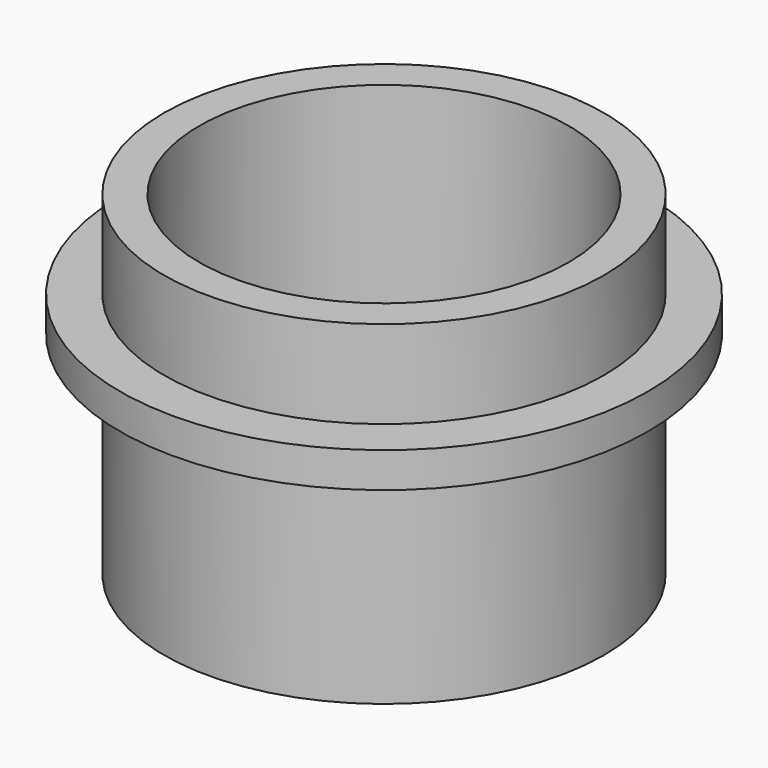
from build123d import *

# Parameters (mm, degrees)
SKETCH_R      = 30
SKETCH_R_2    = 21
PAD_DEPTH     = 4
SKETCH001_R   = 25
SKETCH001_R_2 = 21
PAD001_DEPTH  = 24
SKETCH002_R   = 25
SKETCH002_R_2 = 21
PAD002_DEPTH  = 10


with BuildPart() as part:
    # Sketch → Pad (new body)
    with BuildSketch(Plane.XY):
        Circle(SKETCH_R)
        Circle(SKETCH_R_2, mode=Mode.SUBTRACT)
    extrude(amount=PAD_DEPTH)

    # Sketch001 (on Face3 of Pad) → Pad001 (join)
    with BuildSketch(Plane(origin=(0, 0, 0), x_dir=(1, 0, 0), z_dir=(0, 0, -1))):
        Circle(SKETCH001_R)
        Circle(SKETCH001_R_2, mode=Mode.SUBTRACT)
    extrude(amount=PAD001_DEPTH)

    # Sketch002 (on Face3 of Pad001) → Pad002 (join)
    with BuildSketch(Plane.XY.offset(4)):
        Circle(SKETCH002_R)
        Circle(SKETCH002_R_2, mode=Mode.SUBTRACT)
    extrude(amount=PAD002_DEPTH)


solid = part.part
